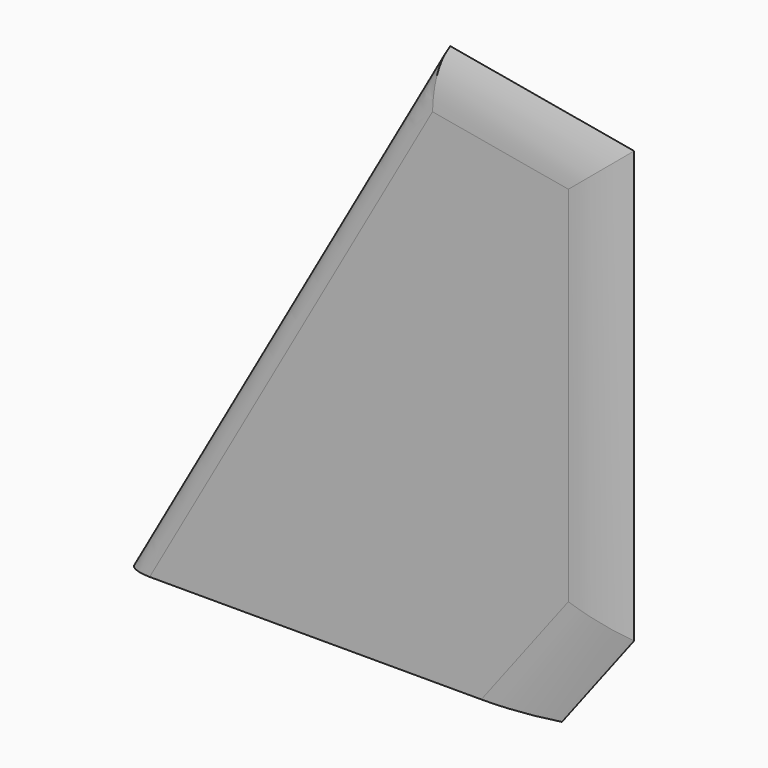
from build123d import *

# Parameters (mm, degrees)
F1_DEPTH  = 1.190625
F4_DEPTH  = 90.1519466601
F7_DEPTH  = 38.1
F9_DEPTH  = 68.8350001
F12_DEPTH = 38.1


with BuildPart() as f1:
    # F0 (on Front) → F1 (new body, symmetric)
    with BuildSketch(Plane.XZ):
        Polygon((34.6639213115, 61.468), (0, 0), (47.244, 0), (56.134, 11.684), (56.134, 57.6660068989), align=None)
        Polygon((38.8178622951, 68.834), (34.6639213115, 61.468), (56.134, 57.6660068989), (56.134, 11.684), (47.244, 0), (52.578, 0), (61.468, 11.684), (61.468, 64.8230381148), align=None)
    extrude(amount=F1_DEPTH, both=True)

    # F3 (on line) → F4 (cut, through all)
    with BuildSketch(Plane(origin=(0, 0, 0), x_dir=(0.8710411332, 0, -0.4912100817), z_dir=(0.4912100817, 0, 0.8710411332))):
        with BuildLine():
            add(Edge.make_bspline(
                [(2.38125, 1.190625), (0, 1.190625), (0, 0)],
                knots=[4.7123889804, 4.7123889804, 4.7123889804, 6.2831853072, 6.2831853072, 6.2831853072], degree=2, weights=[1, 0.7071067812, 1]))
            Line((2.38125, 1.190625), (2.38125, 3.730625))
            Line((2.38125, 3.730625), (-2.54, 3.730625))
            Line((-2.54, 3.730625), (-2.54, 0))
            Line((-2.54, 0), (-2.54, -3.730625))
            Line((-2.54, -3.730625), (2.38125, -3.730625))
            Line((2.38125, -3.730625), (2.38125, -1.190625))
            add(Edge.make_bspline(
                [(0, 0), (0, -1.190625), (2.38125, -1.190625)],
                knots=[0, 0, 0, 1.5707963268, 1.5707963268, 1.5707963268], degree=2, weights=[1, 0.7071067812, 1]))
        make_face()
    extrude(amount=F4_DEPTH, mode=Mode.SUBTRACT)

    # F6 (on line) → F7 (cut, symmetric)
    with BuildSketch(Plane(origin=(19.2780754265, 0, 25.336899132), x_dir=(0.7958286941, 0, -0.6055218325), z_dir=(-0.6055218325, 0, -0.7958286941))):
        with BuildLine():
            ThreePointArc((41.8430810795, 0), (38.3204756483, -0.8909299129), (34.6993310795, -1.190625))
            Line((34.6993310795, -1.190625), (34.6993310795, -3.730625))
            Line((34.6993310795, -3.730625), (44.3830810795, -3.730625))
            Line((44.3830810795, -3.730625), (44.3830810795, 0))
            Line((44.3830810795, 0), (44.3830810795, 3.730625))
            Line((44.3830810795, 3.730625), (34.6993310795, 3.730625))
            Line((34.6993310795, 3.730625), (34.6993310795, 1.190625))
            ThreePointArc((34.6993310795, 1.190625), (38.3204756483, 0.8909299129), (41.8430810795, 0))
        make_face()
    extrude(amount=F7_DEPTH, both=True, mode=Mode.SUBTRACT)

    # F8 (on Top) → F9 (cut, through all)
    with BuildSketch(Plane.XY):
        with BuildLine():
            ThreePointArc((61.468, 0), (57.9453945688, -0.8909299129), (54.32425, -1.190625))
            Line((54.32425, -1.190625), (54.32425, -3.730625))
            Line((54.32425, -3.730625), (64.008, -3.730625))
            Line((64.008, -3.730625), (64.008, 0))
            Line((64.008, 0), (64.008, 3.730625))
            Line((64.008, 3.730625), (54.32425, 3.730625))
            Line((54.32425, 3.730625), (54.32425, 1.190625))
            ThreePointArc((54.32425, 1.190625), (57.9453945688, 0.8909299129), (61.468, 0))
        make_face()
    extrude(amount=F9_DEPTH, mode=Mode.SUBTRACT)

    # F11 (on line) → F12 (cut, symmetric)
    with BuildSketch(Plane(origin=(48.469004713, 0, -8.5830529179), x_dir=(0, 1, 0), z_dir=(0.9846801257, 0, -0.1743704389))):
        with BuildLine():
            Line((-3.730625, 67.404409462), (-1.190625, 67.404409462))
            ThreePointArc((-1.190625, 67.404409462), (-0.8909299129, 71.0255540308), (0, 74.548159462))
            ThreePointArc((0, 74.548159462), (0.8909299129, 71.0255540308), (1.190625, 67.404409462))
            Line((1.190625, 67.404409462), (3.730625, 67.404409462))
            Line((3.730625, 67.404409462), (3.730625, 77.088159462))
            Line((3.730625, 77.088159462), (0, 77.088159462))
            Line((0, 77.088159462), (-3.730625, 77.088159462))
            Line((-3.730625, 77.088159462), (-3.730625, 67.404409462))
        make_face()
    extrude(amount=F12_DEPTH, both=True, mode=Mode.SUBTRACT)


solid = f1.part
